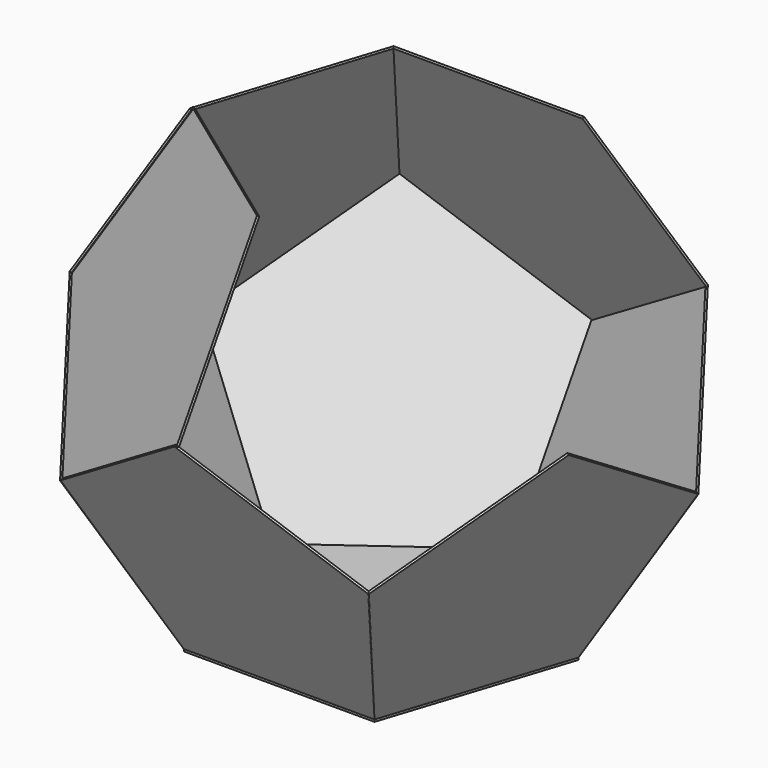
from build123d import *

# Parameters (mm, degrees)
F1_DEPTH  = 1
F3_ANGLE  = -116.57
F5_ANGLE  = -116.51
F7_ANGLE  = -116.51
F9_ANGLE  = -116.51
F11_ANGLE = -116.51
F13_ANGLE = 116.51
F15_ANGLE = -116.51
F17_ANGLE = 116.51
F21_ANGLE = 116.51
F23_ANGLE = 116.51


with BuildPart() as f1:
    # F0 (on Top) → F1 (new body)
    with BuildSketch(Plane.XY):
        Polygon((45, -61.9371864212), (72.8115294937, 23.6579000454), (0, 76.5585727517), (-72.8115294937, 23.6579000454), (-45, -61.9371864212), align=None)
    extrude(amount=F1_DEPTH)


with BuildPart() as f2_1:
    # F2: copy of F1
    add(f1.part)


with BuildPart() as f2_1_1:
    # F3: moved
    add(f2_1.part.rotate(Axis((-58.9057647469, -19.1396431879, 1), (-0.3090169944, 0.9510565163, 0)), F3_ANGLE))


with BuildPart() as f4_1:
    # F4: copy of F1
    add(f1.part)


with BuildPart() as f4_1_1:
    # F5: moved
    add(f4_1.part.rotate(Axis((-36.4057647469, 50.1082363985, 1), (0.8090169944, 0.5877852523, 0)), F5_ANGLE))


with BuildPart() as f6_1:
    # F6: copy of F1
    add(f1.part)


with BuildPart() as f6_1_1:
    # F7: moved
    add(f6_1.part.rotate(Axis((36.4057647469, 50.1082363985, 1), (0.8090169944, -0.5877852523, 0)), F7_ANGLE))


with BuildPart() as f8_1:
    # F8: copy of F1
    add(f1.part)


with BuildPart() as f8_1_1:
    # F9: moved
    add(f8_1.part.rotate(Axis((58.9057647469, -19.1396431879, 1), (-0.3090169944, -0.9510565163, 0)), F9_ANGLE))


with BuildPart() as f10_1:
    # F10: copy of F1
    add(f1.part)


with BuildPart() as f10_1_1:
    # F11: moved
    add(f10_1.part.rotate(Axis((0, -61.9371864212, 1), (-1, 0, 0)), F11_ANGLE))


with BuildPart() as f12_1:
    # F12: copy of F4_1
    add(f4_1_1.part)


with BuildPart() as f12_1_1:
    # F13: moved
    add(f12_1.part.rotate(Axis((-35.8231696333, 111.2435494385, 101.7109257434), (-0.8087200121, -0.2632743171, 0.525983437)), F13_ANGLE))


with BuildPart() as f14_1:
    # F14: copy of F12_1
    add(f12_1_1.part)


with BuildPart() as f14_1_1:
    # F15: moved
    add(f14_1.part.rotate(Axis((-58.289033233, 79.2963265344, 163.1696822282), (-0.3094967746, 0.4268032872, -0.8497356651)), F15_ANGLE))


with BuildPart() as f16_1:
    # F16: copy of F2_1
    add(f2_1_1.part)


with BuildPart() as f16_1_1:
    # F17: moved
    add(f16_1.part.rotate(Axis((-94.4691476145, -68.9741731221, 101.6594352602), (0.5000431857, -0.6881769284, -0.5257084056)), F17_ANGLE))


with BuildPart() as f20_1:
    # F20: copy of F4_1
    add(f4_1_1.part)


with BuildPart() as f20_1_1:
    # F21: moved
    add(f20_1.part.rotate(Axis((-94.7289343802, 68.4460062052, 101.7109257434), (-0.5002969823, -0.6877821992, -0.525983437)), F21_ANGLE))


with BuildPart() as f22_1:
    # F22: copy of F2_1
    add(f2_1_1.part)


with BuildPart() as f22_1_1:
    # F23: moved
    add(f22_1.part.rotate(Axis((-94.4691476145, -68.9741731221, 101.6594352602), (0.5000431857, -0.6881769284, -0.5257084056)), F23_ANGLE))


with BuildPart() as f24_1:
    # F24: copy of F20_1
    add(f20_1_1.part)


solid = Compound([f1.part, f2_1_1.part, f4_1_1.part, f6_1_1.part, f8_1_1.part, f10_1_1.part, f12_1_1.part, f20_1_1.part, f22_1_1.part, f24_1.part])
